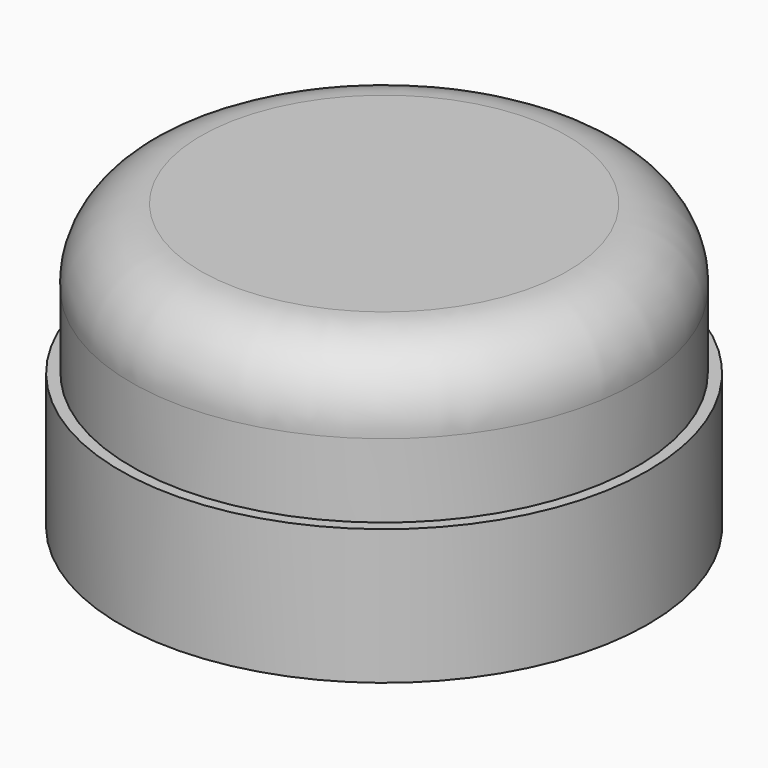
from build123d import *

# Parameters (mm, degrees)
F0_R     = 37.85
F1_DEPTH = 19.4
F3_D     = 3.3
F3_DEPTH = 4
F3_TIP   = 0.9914200214


with BuildPart() as f1:
    # F0 (on Top) → F1 (new body)
    with BuildSketch(Plane.XY):
        Circle(F0_R)
    extrude(amount=F1_DEPTH)

    # F3
    with Locations(Plane(origin=(0, 0, 0), x_dir=(1, 0, 0), z_dir=(0, 0, -1))):
        with Locations((0, 29.5), (-29.5, 0), (0, -29.5), (29.5, 0)):
            Hole(F3_D / 2, depth=F3_DEPTH)
            with Locations((0, 0, -(F3_DEPTH + F3_TIP / 2))):  # 118° drill point
                Cone(0, F3_D / 2, F3_TIP, mode=Mode.SUBTRACT)

    # F4 (on Right) → F5 (revolve)
    with BuildSketch(Plane.YZ):
        with BuildLine():
            Line((-36.25, 29.9819558859), (-36.25, 19.4))
            Line((-36.25, 19.4), (0, 19.4))
            Line((0, 19.4), (0, 40.8))
            Line((0, 40.8), (-26.2835159747, 40.8))
            ThreePointArc((-26.2835159747, 40.8), (-33.6381213734, 37.57567557), (-36.25, 29.9819558859))
        make_face()
    revolve(axis=Axis((0, 0, 30.1), (0, 0, 1)))


solid = f1.part
